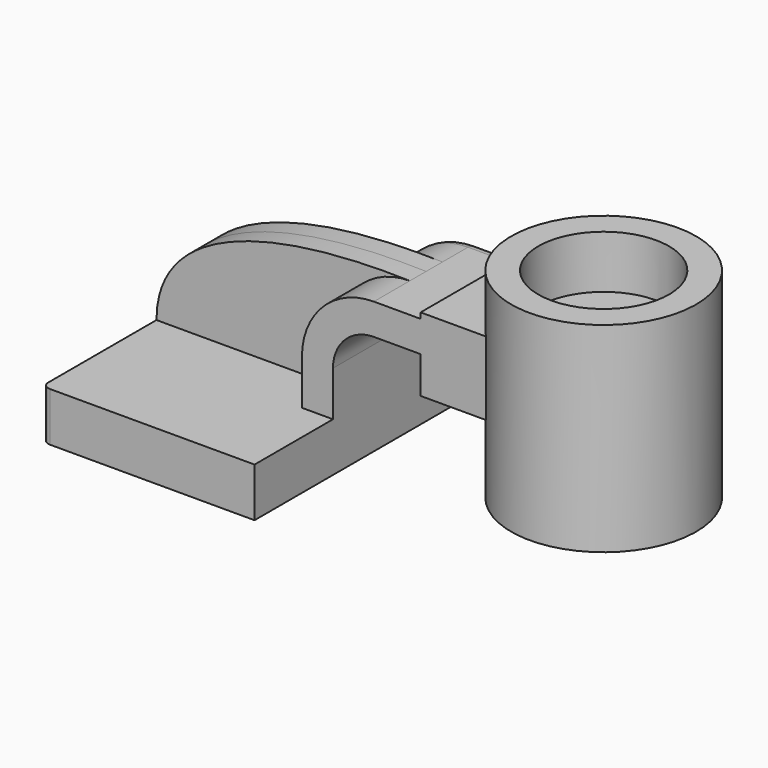
from build123d import *

# Parameters (mm, degrees)
F1_DEPTH = 63.5
F2_DEPTH = 25.4
F3_DEPTH = 7.9375
F4_W     = 25.4
F4_H     = 28.5877
F4_H_2   = 28.575
F4_H_3   = 20.5653703187
F6_R     = 3
F7_R     = 5.08


with BuildPart() as f1:
    # F0 (on Front) → F1 (new body, symmetric)
    with BuildSketch(Plane.XZ):
        Polygon((29.2099986579, 9.525), (-41.275, 9.525), (-41.275, -9.525), (41.275, -9.525), (41.275, 9.525), align=None)
    extrude(amount=F1_DEPTH, both=True)

    # F0 (on Front) → F2 (join, symmetric)
    with BuildSketch(Plane.XZ):
        with BuildLine():
            Line((29.2099986579, 27.0002), (29.2099986579, 9.525))
            Line((29.2099986579, 9.525), (41.275, 9.525))
            Line((41.275, 9.525), (41.275, 27.0002))
            ThreePointArc((41.275, 27.0002), (45.9246798487, 38.2255201513), (57.15, 42.8752))
            Line((57.15, 42.8752), (75.3208244484, 42.8752))
            Line((75.3208244484, 42.8752), (75.3208244484, 54.9402013421))
            Line((75.3208244484, 54.9402013421), (57.15, 54.9402013421))
            ThreePointArc((57.15, 54.9402013421), (37.3934355846, 46.7567644154), (29.2099986579, 27.0002))
        make_face()
        Polygon((75.3208244484, 57.1627), (75.3208244484, 54.9402013421), (75.3208244484, 42.8752), (75.3208244484, 28.5877), (126.1208244484, 28.5877), (126.1208244484, 57.1627), align=None)
    extrude(amount=F2_DEPTH, both=True)

    # F0 (on Front) → F3 (join, symmetric)
    with BuildSketch(Plane.XZ):
        with BuildLine():
            add(Edge.make_bspline(
                [(-41.275, 9.525), (-41.1590449512, 44.640161097), (4.4794571586, 56.3350282609), (57.15, 54.9402013421)],
                knots=[0, 0, 0, 0, 108.3975144454, 108.3975144454, 108.3975144454, 108.3975144454], degree=3))
            Line((-41.275, 9.525), (29.2099986579, 9.525))
            Line((29.2099986579, 9.525), (29.2099986579, 27.0002))
            ThreePointArc((29.2099986579, 27.0002), (37.3934355846, 46.7567644154), (57.15, 54.9402013421))
        make_face()
    extrude(amount=F3_DEPTH, both=True)

    # F4 (on face) → F5 (revolve)
    with BuildSketch(Plane.XZ.offset(25.4)):
        with Locations((113.4208244484, 14.29385)):
            Rectangle(F4_W, F4_H)
        with Locations((113.4208244484, 42.8752)):
            Rectangle(F4_W, F4_H_2)
        with Locations((113.4208244484, 67.4453851593)):
            Rectangle(F4_W, F4_H_3)
    revolve(axis=Axis((126.1208244484, 0, 42.8752), (0, 0, -1)))

    # F6
    f6_edges = [f1.edges().sort_by_distance(p)[0] for p in [
        (-41.275, 63.5, 0),
        (41.275, 63.5, 0),
        (-41.275, -63.5, 0),
    ]]
    fillet(f6_edges, radius=F6_R)

    # F7
    f7_edges = [f1.edges().sort_by_distance(p)[0] for p in [
        (37.393436, 25.4, 46.756764),
    ]]
    fillet(f7_edges, radius=F7_R)


solid = f1.part
